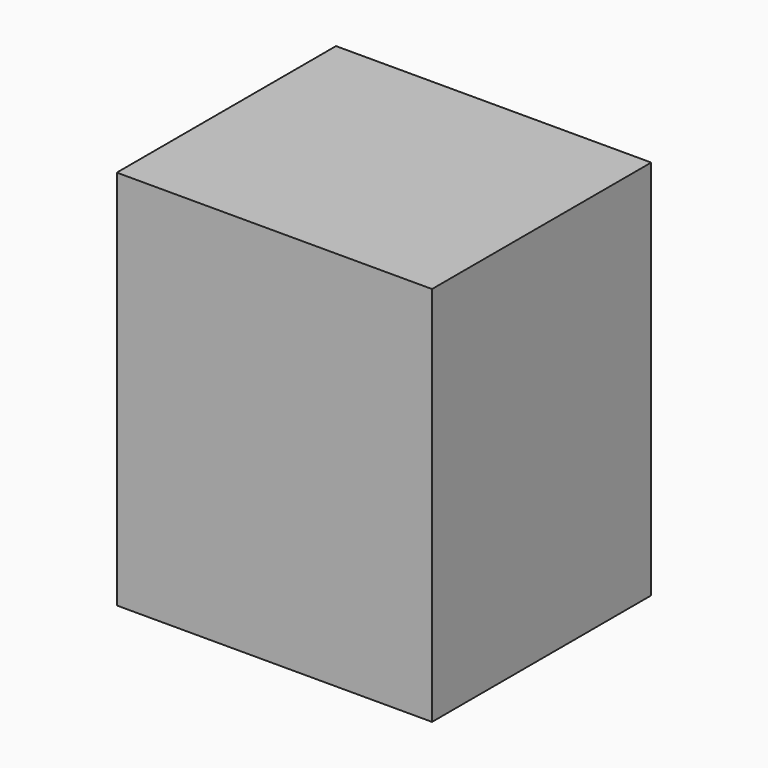
from build123d import *

# Parameters (mm, degrees)
F0_W          = 54.607626
F0_H          = 47.458664
F0_R          = 15.253608
F1_DEPTH      = 40.61502
F1_DEPTH_BACK = 25.4


with BuildPart() as f1:
    # F0 (on Top) → F1 (new body, two sides)
    with BuildSketch(Plane.XY) as f1_sk:
        with Locations((27.303813, -23.729332)):
            Rectangle(F0_W, F0_H)
        with Locations((27.303813, -23.729332)):
            Circle(F0_R, mode=Mode.SUBTRACT)
        with Locations((27.303813, -23.729332)):
            Circle(F0_R)
    extrude(amount=F1_DEPTH)
    extrude(f1_sk.sketch, amount=-F1_DEPTH_BACK)


solid = f1.part
